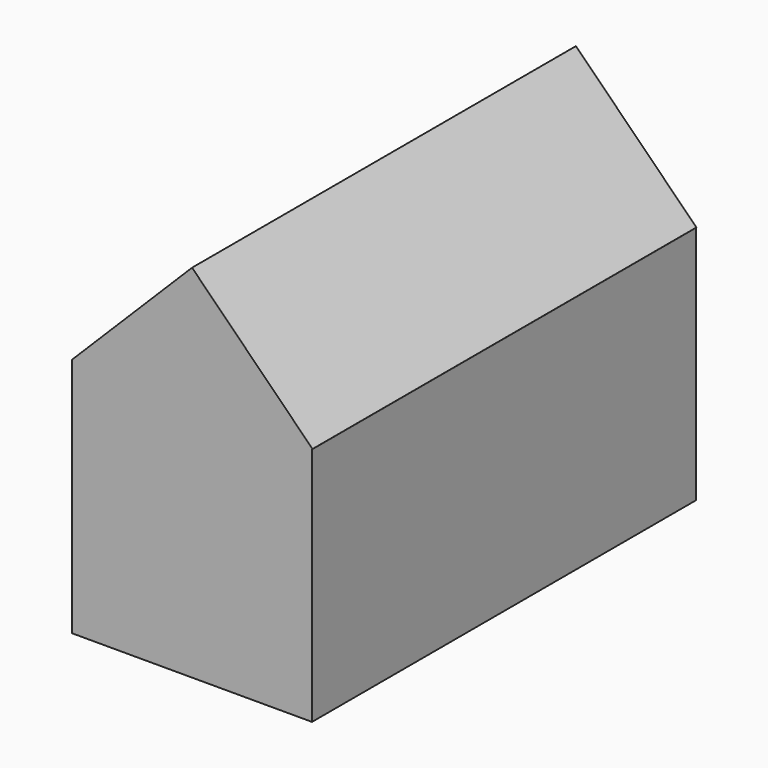
from build123d import *

# Parameters (mm, degrees)
BOX001_W               = 7.1
BOX001_H               = 20
BOX001_DEPTH           = 7.1
BOX001_PLACEMENT_ANGLE = 45
BOX_W                  = 10
BOX_H                  = 20
BOX_DEPTH              = 10


with BuildPart() as obj1:
    # Box001 → Box001 (new body)
    with BuildSketch(Plane.XY):
        with Locations((3.55, 10)):
            Rectangle(BOX001_W, BOX001_H)
    extrude(amount=BOX001_DEPTH)


with BuildPart() as obj1_1:
    # Box001 placement: moved
    add(obj1.part.moved(Location((5, 0, 5))).rotate(Axis((5, 0, 5), (0, -1, 0)), BOX001_PLACEMENT_ANGLE))


with BuildPart() as fusion:
    # Box → Box (new body)
    with BuildSketch(Plane.XY):
        with Locations((5, 10)):
            Rectangle(BOX_W, BOX_H)
    extrude(amount=BOX_DEPTH)

    # Fusion: union obj1
    add(obj1_1.part)


with BuildPart() as fusion_1:
    # Fusion placement: moved
    add(fusion.part.moved(Location((-5, -10, 0))))


solid = fusion_1.part
